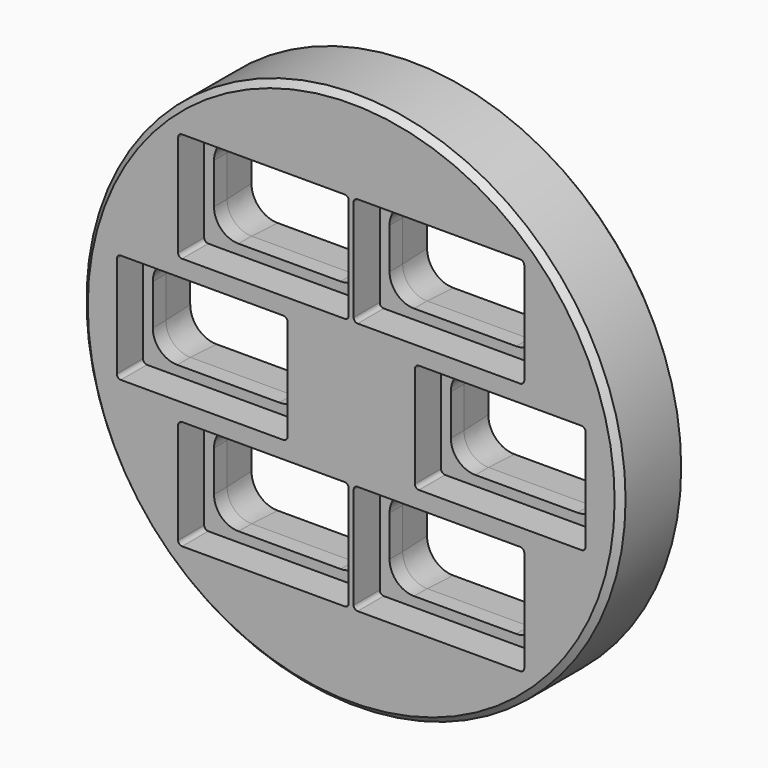
from build123d import *

# Parameters (mm, degrees)
F0_R     = 104.775
F1_DEPTH = 31.75
F2_SIZE  = 2.3622
F3_SIZE  = 2.3622
F5_DEPTH = 12.7
F7_DEPTH = 19.051
F8_SIZE2 = 12.7
F8_SIZE  = 0.6655787969


with BuildPart() as f1:
    # F0 (on Front) → F1 (new body)
    with BuildSketch(Plane.XZ):
        Circle(F0_R)
    extrude(amount=F1_DEPTH)

    # F2
    f2_edges = [f1.edges().sort_by_distance(p)[0] for p in [
        (-104.775, -31.75, 0),
    ]]
    chamfer(f2_edges, length=F2_SIZE)

    # F3
    f3_edges = [f1.edges().sort_by_distance(p)[0] for p in [
        (-104.775, 0, 0),
    ]]
    chamfer(f3_edges, length=F3_SIZE)

    # F4 (on face) → F5 (cut)
    with BuildSketch(Plane.XZ.offset(31.75)):
        with BuildLine():
            ThreePointArc((-24.765, 19.6977), (-25.226248241, 20.811251759), (-26.3398, 21.2725))
            Line((-26.3398, 21.2725), (-89.535, 21.2725))
            ThreePointArc((-89.535, 21.2725), (-90.648551759, 20.811251759), (-91.1098, 19.6977))
            Line((-91.1098, 19.6977), (-91.1098, -19.6977))
            ThreePointArc((-91.1098, -19.6977), (-90.648551759, -20.811251759), (-89.535, -21.2725))
            Line((-89.535, -21.2725), (-26.3398, -21.2725))
            ThreePointArc((-26.3398, -21.2725), (-25.226248241, -20.811251759), (-24.765, -19.6977))
            Line((-24.765, -19.6977), (-24.765, 19.6977))
        make_face()
        with BuildLine():
            ThreePointArc((91.1098, 19.6977), (90.648551759, 20.811251759), (89.535, 21.2725))
            Line((89.535, 21.2725), (26.3398, 21.2725))
            ThreePointArc((26.3398, 21.2725), (25.226248241, 20.811251759), (24.765, 19.6977))
            Line((24.765, 19.6977), (24.765, -19.6977))
            ThreePointArc((24.765, -19.6977), (25.226248241, -20.811251759), (26.3398, -21.2725))
            Line((26.3398, -21.2725), (89.535, -21.2725))
            ThreePointArc((89.535, -21.2725), (90.648551759, -20.811251759), (91.1098, -19.6977))
            Line((91.1098, -19.6977), (91.1098, 19.6977))
        make_face()
        with BuildLine():
            ThreePointArc((-0.9525, 68.9102), (-1.413748241, 70.023751759), (-2.5273, 70.485))
            Line((-2.5273, 70.485), (-65.7225, 70.485))
            ThreePointArc((-65.7225, 70.485), (-66.836051759, 70.023751759), (-67.2973, 68.9102))
            Line((-67.2973, 68.9102), (-67.2973, 29.5148))
            ThreePointArc((-67.2973, 29.5148), (-66.836051759, 28.401248241), (-65.7225, 27.94))
            Line((-65.7225, 27.94), (-2.5273, 27.94))
            ThreePointArc((-2.5273, 27.94), (-1.413748241, 28.401248241), (-0.9525, 29.5148))
            Line((-0.9525, 29.5148), (-0.9525, 68.9102))
        make_face()
        with BuildLine():
            Line((65.7098, 70.485), (2.5146, 70.485))
            ThreePointArc((2.5146, 70.485), (1.401048241, 70.023751759), (0.9398, 68.9102))
            Line((0.9398, 68.9102), (0.9398, 29.5148))
            ThreePointArc((0.9398, 29.5148), (1.401048241, 28.401248241), (2.5146, 27.94))
            Line((2.5146, 27.94), (65.7098, 27.94))
            ThreePointArc((65.7098, 27.94), (66.823351759, 28.401248241), (67.2846, 29.5148))
            Line((67.2846, 29.5148), (67.2846, 68.9102))
            ThreePointArc((67.2846, 68.9102), (66.823351759, 70.023751759), (65.7098, 70.485))
        make_face()
        with BuildLine():
            ThreePointArc((-0.9525, -29.5148), (-1.413748241, -28.401248241), (-2.5273, -27.94))
            Line((-2.5273, -27.94), (-65.7225, -27.94))
            ThreePointArc((-65.7225, -27.94), (-66.836051759, -28.401248241), (-67.2973, -29.5148))
            Line((-67.2973, -29.5148), (-67.2973, -68.9102))
            ThreePointArc((-67.2973, -68.9102), (-66.836051759, -70.023751759), (-65.7225, -70.485))
            Line((-65.7225, -70.485), (-2.5273, -70.485))
            ThreePointArc((-2.5273, -70.485), (-1.413748241, -70.023751759), (-0.9525, -68.9102))
            Line((-0.9525, -68.9102), (-0.9525, -29.5148))
        make_face()
        with BuildLine():
            Line((65.7098, -27.94), (2.5146, -27.94))
            ThreePointArc((2.5146, -27.94), (1.401048241, -28.401248241), (0.9398, -29.5148))
            Line((0.9398, -29.5148), (0.9398, -68.9102))
            ThreePointArc((0.9398, -68.9102), (1.401048241, -70.023751759), (2.5146, -70.485))
            Line((2.5146, -70.485), (65.7098, -70.485))
            ThreePointArc((65.7098, -70.485), (66.823351759, -70.023751759), (67.2846, -68.9102))
            Line((67.2846, -68.9102), (67.2846, -29.5148))
            ThreePointArc((67.2846, -29.5148), (66.823351759, -28.401248241), (65.7098, -27.94))
        make_face()
    extrude(amount=-F5_DEPTH, mode=Mode.SUBTRACT)

    # F6 (on face) → F7 (cut, through all)
    with BuildSketch(Plane.XZ.offset(19.05)):
        with BuildLine():
            ThreePointArc((-4.7625, 57.15), (-7.5523079092, 63.8851920908), (-14.2875, 66.675))
            Line((-14.2875, 66.675), (-53.9623, 66.675))
            ThreePointArc((-53.9623, 66.675), (-60.6974920908, 63.8851920908), (-63.4873, 57.15))
            Line((-63.4873, 57.15), (-63.4873, 41.275))
            ThreePointArc((-63.4873, 41.275), (-60.6974920908, 34.5398079092), (-53.9623, 31.75))
            Line((-53.9623, 31.75), (-14.2875, 31.75))
            ThreePointArc((-14.2875, 31.75), (-7.5523079092, 34.5398079092), (-4.7625, 41.275))
            Line((-4.7625, 41.275), (-4.7625, 57.15))
        make_face()
        with BuildLine():
            ThreePointArc((53.9623, 31.75), (60.6974920908, 34.5398079092), (63.4873, 41.275))
            Line((63.4873, 41.275), (63.4873, 57.15))
            ThreePointArc((63.4873, 57.15), (60.6974920908, 63.8851920908), (53.9623, 66.675))
            Line((53.9623, 66.675), (14.2875, 66.675))
            ThreePointArc((14.2875, 66.675), (7.5523079092, 63.8851920908), (4.7625, 57.15))
            Line((4.7625, 57.15), (4.7625, 41.275))
            ThreePointArc((4.7625, 41.275), (7.5523079092, 34.5398079092), (14.2875, 31.75))
            Line((14.2875, 31.75), (53.9623, 31.75))
        make_face()
        with BuildLine():
            ThreePointArc((4.7625, -57.15), (7.5523079092, -63.8851920908), (14.2875, -66.675))
            Line((14.2875, -66.675), (53.9623, -66.675))
            ThreePointArc((53.9623, -66.675), (60.6974920908, -63.8851920908), (63.4873, -57.15))
            Line((63.4873, -57.15), (63.4873, -41.275))
            ThreePointArc((63.4873, -41.275), (60.6974920908, -34.5398079092), (53.9623, -31.75))
            Line((53.9623, -31.75), (14.2875, -31.75))
            ThreePointArc((14.2875, -31.75), (7.5523079092, -34.5398079092), (4.7625, -41.275))
            Line((4.7625, -41.275), (4.7625, -57.15))
        make_face()
        with BuildLine():
            ThreePointArc((-63.4873, -57.15), (-60.6974920908, -63.8851920908), (-53.9623, -66.675))
            Line((-53.9623, -66.675), (-14.2875, -66.675))
            ThreePointArc((-14.2875, -66.675), (-7.5523079092, -63.8851920908), (-4.7625, -57.15))
            Line((-4.7625, -57.15), (-4.7625, -41.275))
            ThreePointArc((-4.7625, -41.275), (-7.5523079092, -34.5398079092), (-14.2875, -31.75))
            Line((-14.2875, -31.75), (-53.9623, -31.75))
            ThreePointArc((-53.9623, -31.75), (-60.6974920908, -34.5398079092), (-63.4873, -41.275))
            Line((-63.4873, -41.275), (-63.4873, -57.15))
        make_face()
        with BuildLine():
            ThreePointArc((-28.575, 7.9375), (-31.3648079092, 14.6726920908), (-38.1, 17.4625))
            Line((-38.1, 17.4625), (-77.7748, 17.4625))
            ThreePointArc((-77.7748, 17.4625), (-84.5099920908, 14.6726920908), (-87.2998, 7.9375))
            Line((-87.2998, 7.9375), (-87.2998, -7.9375))
            ThreePointArc((-87.2998, -7.9375), (-84.5099920908, -14.6726920908), (-77.7748, -17.4625))
            Line((-77.7748, -17.4625), (-38.1, -17.4625))
            ThreePointArc((-38.1, -17.4625), (-31.3648079092, -14.6726920908), (-28.575, -7.9375))
            Line((-28.575, -7.9375), (-28.575, 7.9375))
        make_face()
        with BuildLine():
            Line((77.7748, 17.4625), (38.1, 17.4625))
            ThreePointArc((38.1, 17.4625), (31.3648079092, 14.6726920908), (28.575, 7.9375))
            Line((28.575, 7.9375), (28.575, -7.9375))
            ThreePointArc((28.575, -7.9375), (31.3648079092, -14.6726920908), (38.1, -17.4625))
            Line((38.1, -17.4625), (77.7748, -17.4625))
            ThreePointArc((77.7748, -17.4625), (84.5099920908, -14.6726920908), (87.2998, -7.9375))
            Line((87.2998, -7.9375), (87.2998, 7.9375))
            ThreePointArc((87.2998, 7.9375), (84.5099920908, 14.6726920908), (77.7748, 17.4625))
        make_face()
    extrude(amount=-F7_DEPTH, mode=Mode.SUBTRACT)

    # F8
    f8_edges = [f1.edges().sort_by_distance(p)[0] for p in [
        (34.1249, 0, 66.675),
        (-34.1249, 0, 66.675),
        (-57.9374, 0, 17.4625),
        (57.9374, 0, 17.4625),
        (34.1249, 0, -31.75),
        (-34.1249, 0, -31.75),
    ]]
    f8_side = f1.faces().sort_by_distance((0, 0, 0))[0]
    chamfer(f8_edges, length=F8_SIZE, length2=F8_SIZE2, reference=f8_side)


solid = f1.part
